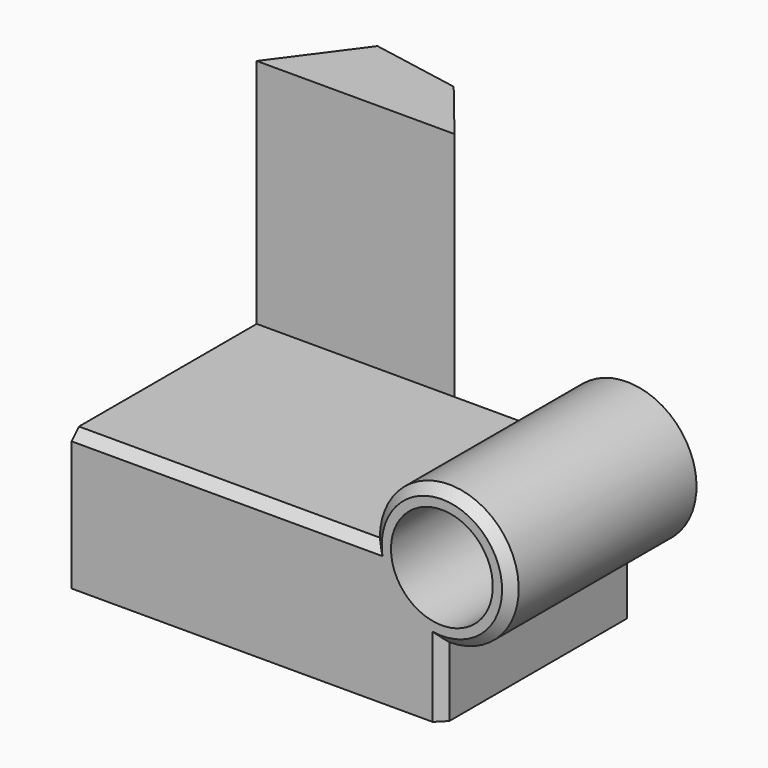
from build123d import *

# Parameters (mm, degrees)
F1_DEPTH = 25
F2_SIZE  = 1
F3_R     = 5.5
F4_DEPTH = 25.001
F6_DEPTH = 25


with BuildPart() as f1:
    # F0 (on Front) → F1 (new body)
    with BuildSketch(Plane.XZ):
        with BuildLine():
            Line((0, 15), (0, 0))
            Line((0, 0), (40, 0))
            Line((40, 0), (40, 7.5))
            ThreePointArc((40, 7.5), (34.6966991411, 9.6966991411), (32.5, 15))
            Line((32.5, 15), (0, 15))
        make_face()
        with BuildLine():
            ThreePointArc((32.5, 15), (34.6966991411, 9.6966991411), (40, 7.5))
            Line((40, 7.5), (40, 15))
            Line((40, 15), (32.5, 15))
        make_face()
        with BuildLine():
            Line((40, 15), (40, 7.5))
            ThreePointArc((40, 7.5), (45.3033008589, 9.6966991411), (47.5, 15))
            ThreePointArc((47.5, 15), (40, 22.5), (32.5, 15))
            Line((32.5, 15), (40, 15))
        make_face()
    extrude(amount=F1_DEPTH)

    # F2
    f2_edges = [f1.edges().sort_by_distance(p)[0] for p in [
        (16.25, -25, 15),
        (45.303301, -25, 20.303301),
        (40, -25, 3.75),
    ]]
    chamfer(f2_edges, length=F2_SIZE)

    # F3 (on face) → F4 (cut, through all)
    with BuildSketch(Plane(origin=(0, 0, 0), x_dir=(-1, 0, 0), z_dir=(0, 1, 0))):
        with Locations((-40, 15)):
            Circle(F3_R)
    extrude(amount=-F4_DEPTH, mode=Mode.SUBTRACT)


with BuildPart() as f6:
    # F5 (on face) → F6 (new body)
    with BuildSketch(Plane.XY.offset(15)):
        Polygon((6.2590348534, 8.4877051413), (0, 0), (21.3613715023, 0), (15.9018412232, 6.7151314579), align=None)
    extrude(amount=F6_DEPTH)


solid = Compound([f1.part, f6.part])
